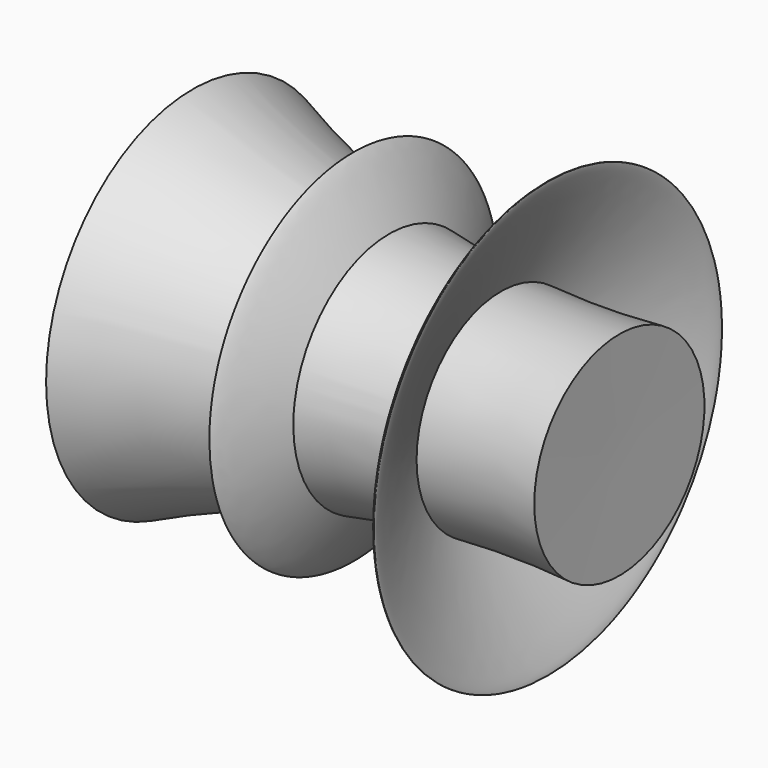
from build123d import *


with BuildPart() as f1:
    # F0 (on Top) → F1 (revolve)
    with BuildSketch(Plane.XY):
        with BuildLine():
            ThreePointArc((36.808928605, -12.5997815098), (43.8748775021, -12.4073331318), (50.9373852931, -12.7))
            Line((50.9373852931, -12.7), (50.8, 0))
            Line((50.8, 0), (30.7489222871, 0))
            add(Edge.make_bspline(
                [(36.808928605, -12.5997815098), (34.0134691077, -6.6184496361), (30.7489222871, 0)],
                knots=[1.1014142885, 1.1014142885, 1.1014142885, 1.6479286217, 1.6479286217, 1.6479286217], degree=2, weights=[1, 0.9628969968, 1]))
        make_face()
        with BuildLine():
            ThreePointArc((34.9711490687, -12.7295527778), (35.8897486595, -12.660557744), (36.808928605, -12.5997815098))
            add(Edge.make_bspline(
                [(36.808928605, -12.5997815098), (34.0134691077, -6.6184496361), (30.7489222871, 0)],
                knots=[1.1014142885, 1.1014142885, 1.1014142885, 1.6479286217, 1.6479286217, 1.6479286217], degree=2, weights=[1, 0.9628969968, 1]))
            Line((30.7489222871, 0), (28.6420354161, 0))
            add(Edge.make_bspline(
                [(28.6420354161, 0), (31.8880872425, -6.696067946), (34.9711490687, -12.7295527778)],
                knots=[4.6000052427, 4.6000052427, 4.6000052427, 5.1526093181, 5.1526093181, 5.1526093181], degree=2, weights=[1, 0.9620708176, 1]))
        make_face()
        with BuildLine():
            ThreePointArc((0, -21.8770354591), (17.0811213881, -15.7570554686), (34.9711490687, -12.7295527778))
            add(Edge.make_bspline(
                [(28.6420354161, 0), (31.8880872425, -6.696067946), (34.9711490687, -12.7295527778)],
                knots=[4.6000052427, 4.6000052427, 4.6000052427, 5.1526093181, 5.1526093181, 5.1526093181], degree=2, weights=[1, 0.9620708176, 1]))
            Line((28.6420354161, 0), (0, 0))
            Line((0, 0), (0, -21.8770354591))
        make_face()
    revolve(axis=Axis((25.4, 0, 0), (-1, 0, 0)))

    # F0 (on Top) → F2 (revolve)
    with BuildSketch(Plane.XY):
        with BuildLine():
            add(Edge.make_bspline(
                [(42.4097292125, -25.9618591517), (42.9338949651, -25.7051248527), (36.808928605, -12.5997815098)],
                knots=[0, 0, 0, 1.1014142885, 1.1014142885, 1.1014142885], degree=2, weights=[1, 0.8521546937, 1]))
            ThreePointArc((36.808928605, -12.5997815098), (35.8897486595, -12.660557744), (34.9711490687, -12.7295527778))
            add(Edge.make_bspline(
                [(34.9711490687, -12.7295527778), (41.8682681718, -26.2270646141), (42.4097292125, -25.9618591517)],
                knots=[5.1526093181, 5.1526093181, 5.1526093181, 6.2831853072, 6.2831853072, 6.2831853072], degree=2, weights=[1, 0.8444343686, 1]))
        make_face()
        with BuildLine():
            ThreePointArc((22.2457801628, 13.6259519286), (23.1213873187, 13.4508983752), (23.9988058992, 13.2851628247))
            add(Edge.make_bspline(
                [(23.9988058992, 13.2851628247), (13.2836604192, 33.5926671435), (22.2457801628, 13.6259519286)],
                knots=[2.2669194336, 2.2669194336, 2.2669194336, 3.961848738, 3.961848738, 3.961848738], degree=2, weights=[1, 0.6618857798, 1]))
        make_face()
    revolve(axis=Axis((25.4, 0, 0), (-1, 0, 0)))


solid = f1.part
